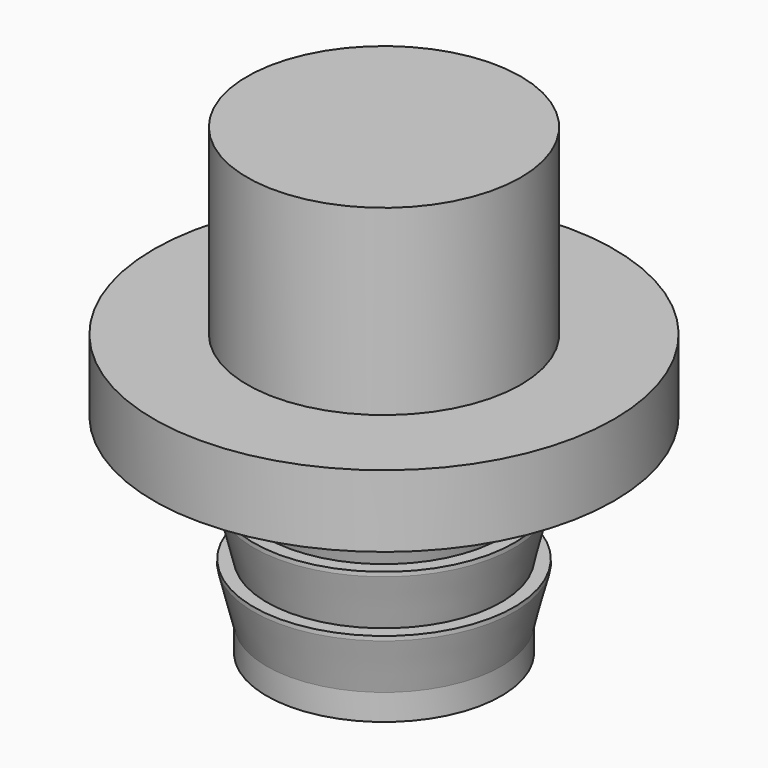
from build123d import *

# Parameters (mm, degrees)
F0_R     = 8.83
F1_DEPTH = 2.76
F4_R     = 5.25
F5_DEPTH = 7


with BuildPart() as f1:
    # F0 (on Top) → F1 (new body)
    with BuildSketch(Plane.XY):
        Circle(F0_R)
    extrude(amount=F1_DEPTH)

    # F2 (on Right) → F3 (revolve)
    with BuildSketch(Plane.YZ):
        Polygon((0, -8), (0, 0), (-4.5, 0), (-4.5, -0.5), (-5, -0.5), (-5, -0.666667), (-4.5, -2.666667), (-5, -2.666667), (-5, -2.833333), (-4.5, -4.833333), (-5, -4.833333), (-5, -5), (-4.5, -7), (-4.5, -8), align=None)
    revolve(axis=Axis((0, 0, -4), (0, 0, 1)))

    # F4 (on face) → F5 (join)
    with BuildSketch(Plane.XY.offset(2.76)):
        Circle(F4_R)
    extrude(amount=F5_DEPTH)


solid = f1.part
